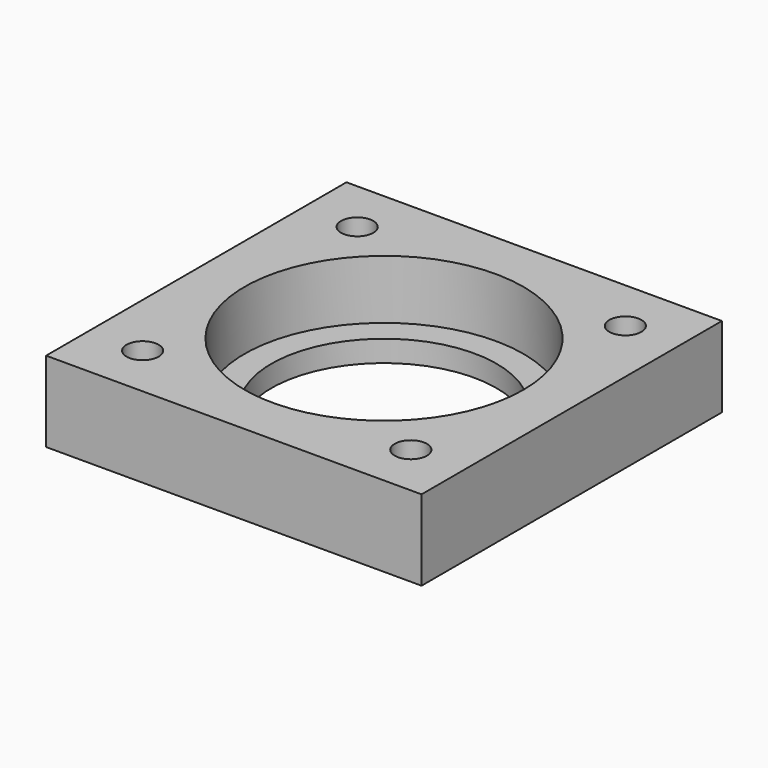
from build123d import *

# Parameters (mm, degrees)
SKETCH_W        = 70
SKETCH_H        = 70
PAD_DEPTH       = 15
SKETCH001_R     = 26
POCKET_DEPTH    = 11
SKETCH002_R     = 3
SKETCH002_R_2   = 21
POCKET001_DEPTH = 15.001


with BuildPart() as part:
    # Sketch → Pad (new body)
    with BuildSketch(Plane.XY):
        Rectangle(SKETCH_W, SKETCH_H)
    extrude(amount=PAD_DEPTH)

    # Sketch001 (on Face6 of Pad) → Pocket (cut)
    with BuildSketch(Plane.XY.offset(15)):
        Circle(SKETCH001_R)
    extrude(amount=-POCKET_DEPTH, mode=Mode.SUBTRACT)

    # Sketch002 → Pocket001 (cut, through all)
    with BuildSketch(Plane.XY.offset(15)):
        with Locations((-25, 25)):
            Circle(SKETCH002_R)
        with Locations((25, 25)):
            Circle(SKETCH002_R)
        with Locations((25, -25)):
            Circle(SKETCH002_R)
        with Locations((-25, -25)):
            Circle(SKETCH002_R)
        Circle(SKETCH002_R_2)
    extrude(amount=-POCKET001_DEPTH, mode=Mode.SUBTRACT)


solid = part.part
